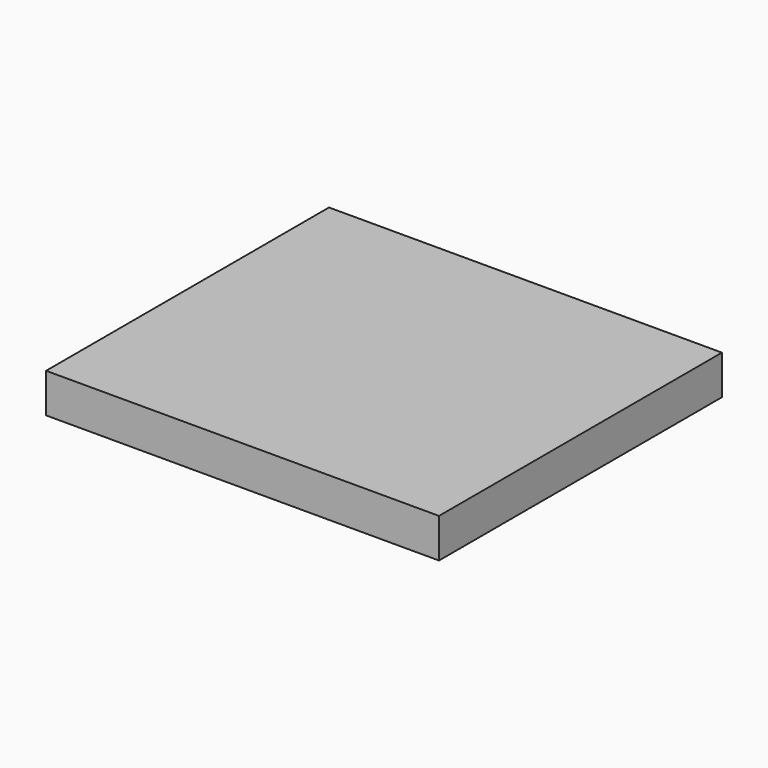
from build123d import *

# Parameters (mm, degrees)
F1_DEPTH = 6.35


with BuildPart() as f1:
    # F0 (on Top) → F1 (new body, symmetric)
    with BuildSketch(Plane.XY):
        Polygon((63.5, 57.15), (0, 57.15), (-63.5, 57.15), (-63.5, 0), (-63.5, -57.15), (0, -57.15), (63.5, -57.15), (63.5, 0), align=None)
    extrude(amount=F1_DEPTH, both=True)


solid = f1.part
